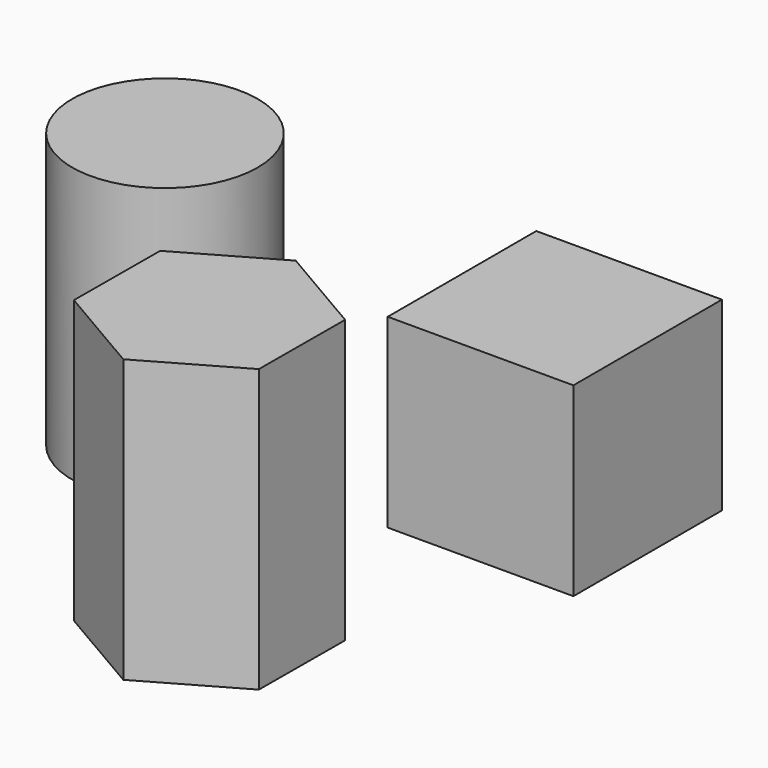
from build123d import *

# Parameters (mm, degrees)
F0_W     = 25
F0_H     = 25
F1_DEPTH = 25
F2_R     = 12.5
F3_DEPTH = 37
F5_DEPTH = 38


with BuildPart() as f1:
    # F0 (on Top) → F1 (new body)
    with BuildSketch(Plane.XY):
        with Locations((12.5, 12.5)):
            Rectangle(F0_W, F0_H)
    extrude(amount=F1_DEPTH)


with BuildPart() as f3:
    # F2 (on Top) → F3 (new body)
    with BuildSketch(Plane.XY):
        with Locations((-30, 0)):
            Circle(F2_R)
    extrude(amount=F3_DEPTH)


with BuildPart() as f5:
    # F4 (on Top) → F5 (new body)
    with BuildSketch(Plane.XY):
        Polygon((0.064268, -15.566386), (-12.467742, -22.727535), (-12.53201, -37.161149), (-0.064268, -44.433614), (12.467742, -37.272465), (12.53201, -22.838851), align=None)
    extrude(amount=F5_DEPTH)


solid = Compound([f1.part, f3.part, f5.part])
